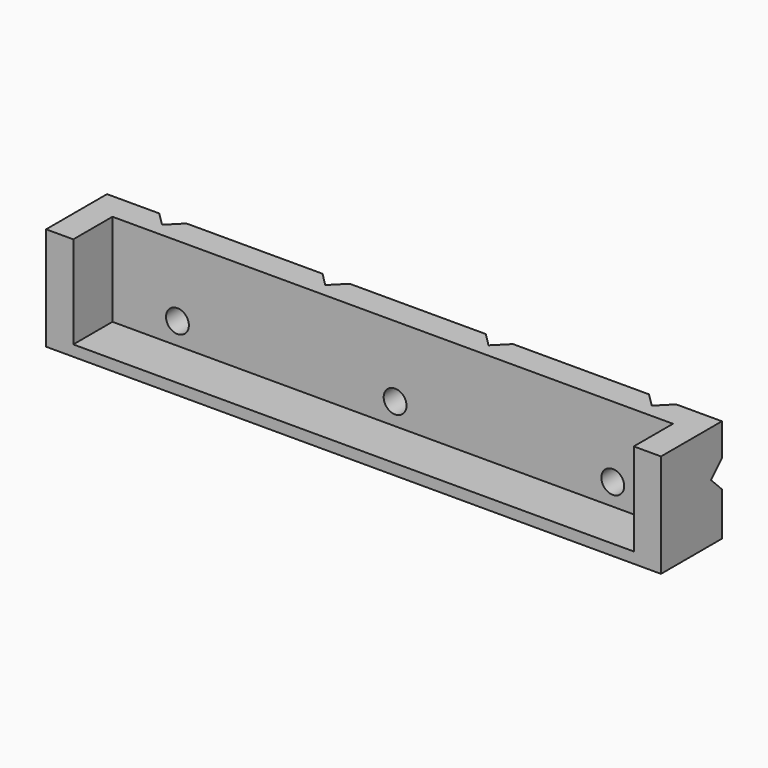
from build123d import *

# Parameters (mm, degrees)
F1_DEPTH = 19
F0_W     = 103
F0_H     = 9
F2_DEPTH = 2
F4_DEPTH = 120
F5_R     = 2.1
F6_DEPTH = 4.2


with BuildPart() as f1:
    # F0 (on Top) → F1 (new body)
    with BuildSketch(Plane.XY):
        Polygon((-52, -14), (-52, -5), (51, -5), (51, -14), (56, -14), (56, 0), (47.60337, 0), (45.10337, -2.5), (42.60337, 0), (17.60337, 0), (15.10337, -2.5), (12.60337, 0), (-12.39663, 0), (-14.89663, -2.5), (-17.39663, 0), (-42.39663, 0), (-44.89663, -2.5), (-47.39663, 0), (-57, 0), (-57, -14), align=None)
    extrude(amount=F1_DEPTH)

    # F0 (on Top) → F2 (join)
    with BuildSketch(Plane.XY):
        with Locations((-0.5, -9.5)):
            Rectangle(F0_W, F0_H)
    extrude(amount=F2_DEPTH)

    # F3 (on face) → F4 (cut)
    with BuildSketch(Plane.YZ.offset(56)):
        Polygon((0, 8), (0, 13), (-2.5, 10.5), align=None)
        Polygon((1.035534, 6.964466), (1.035534, 14.035534), (0, 13), (0, 8), align=None)
    extrude(amount=-F4_DEPTH, mode=Mode.SUBTRACT)

    # F5 (on face) → F6 (cut)
    with BuildSketch(Plane.XZ.offset(5)):
        with Locations((-40.057622, 6)):
            Circle(F5_R)
        with Locations((-0.057622, 6)):
            Circle(F5_R)
        with Locations((39.942378, 6)):
            Circle(F5_R)
    extrude(amount=-F6_DEPTH, mode=Mode.SUBTRACT)


solid = f1.part
